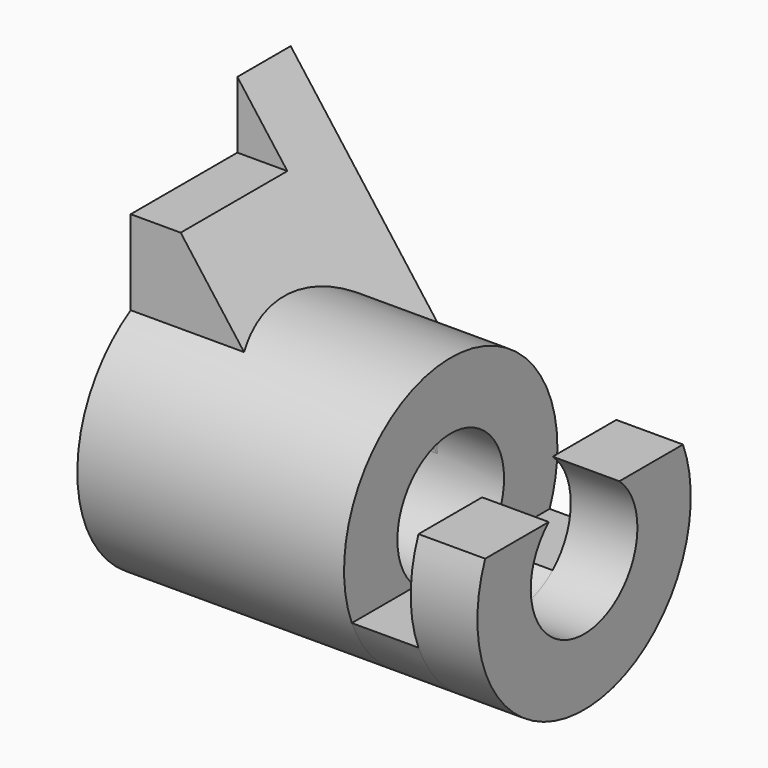
from build123d import *

# Parameters (mm, degrees)
F1_DEPTH  = 12.7
F3_R      = 25.4
F3_R_2    = 12.7
F4_DEPTH  = 50.8
F6_DEPTH  = 12.7
F9_DEPTH  = 19.05
F10_W     = 25.4
F10_H     = 12.7
F11_DEPTH = 63.501
F13_DEPTH = 38.1


with BuildPart() as f1:
    # F0 (on Right) → F1 (new body)
    with BuildSketch(Plane.YZ):
        with BuildLine():
            ThreePointArc((8.4002604126, 9.525), (0, -12.7), (-8.4002604126, 9.525))
            Line((-8.4002604126, 9.525), (-23.5464301965, 9.525))
            ThreePointArc((-23.5464301965, 9.525), (0, -25.4), (23.5464301965, 9.525))
            Line((23.5464301965, 9.525), (8.4002604126, 9.525))
        make_face()
    extrude(amount=F1_DEPTH)



with BuildPart() as f4:
    # F3 (on offset) → F4 (new body)
    with BuildSketch(Plane.YZ.offset(-12.7)):
        Circle(F3_R)
        Circle(F3_R_2, mode=Mode.SUBTRACT)
    extrude(amount=-F4_DEPTH)


with BuildPart() as f1_1:
    add(f1.part)

    add(f4.part)  # F6 merges F4
    # F5 (on Right) → F6 (join)
    with BuildSketch(Plane.YZ):
        with BuildLine():
            Line((-8.4002604126, -9.525), (-23.5464301965, -9.525))
            ThreePointArc((-23.5464301965, -9.525), (0, -25.4), (23.5464301965, -9.525))
            Line((23.5464301965, -9.525), (8.4002604126, -9.525))
            ThreePointArc((8.4002604126, -9.525), (0, -12.7), (-8.4002604126, -9.525))
        make_face()
    extrude(amount=-F6_DEPTH)

    # F8 (on offset) → F9 (join, symmetric)
    with BuildSketch(Plane.XZ.offset(-6.35)):
        Polygon((-25.4, 0), (-63.5, 50.8), (-63.5, 0), align=None)
    extrude(amount=F9_DEPTH, both=True)

    # F10 (on Right) → F11 (cut, through all)
    with BuildSketch(Plane.YZ):
        with Locations((0, 44.45)):
            Rectangle(F10_W, F10_H)
    extrude(amount=-F11_DEPTH, mode=Mode.SUBTRACT)

    # F12 (on face) → F13 (cut)
    with BuildSketch(Plane(origin=(-63.5, 0, 0), x_dir=(0, -1, 0), z_dir=(-1, 0, 0))):
        with BuildLine():
            Line((-12.7, 0), (12.7, 0))
            ThreePointArc((12.7, 0), (0, 12.7), (-12.7, 0))
        make_face()
    extrude(amount=-F13_DEPTH, mode=Mode.SUBTRACT)


solid = f1_1.part
